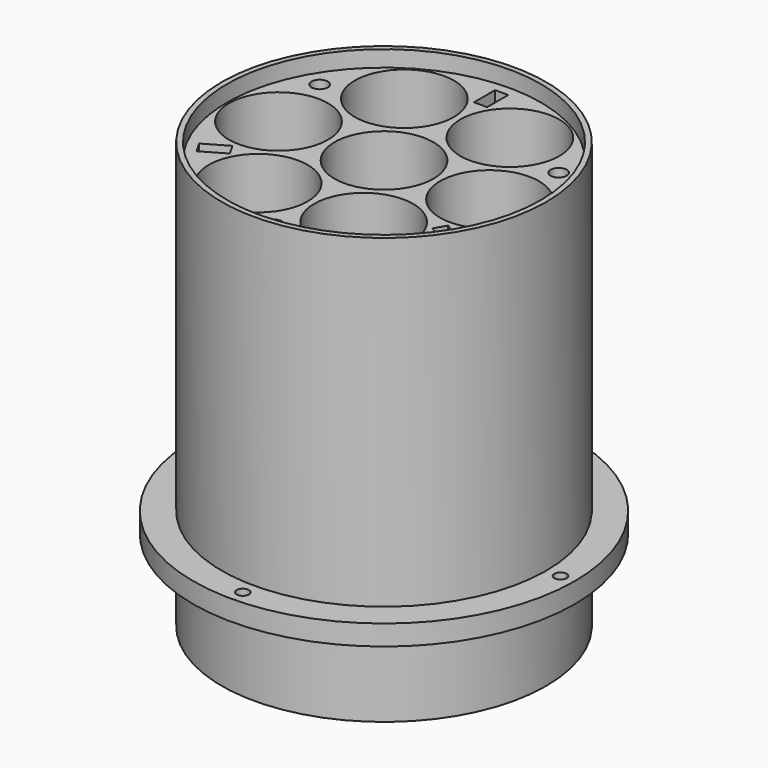
from build123d import *

# Parameters (mm, degrees)
CYLINDER001_R         = 47
CYLINDER001_DEPTH     = 5
CYLINDER_R            = 40
CYLINDER_DEPTH        = 105
SKETCH_R              = 12.2
POCKET_DEPTH          = 100.001
SKETCH001_R           = 12.2
POCKET001_DEPTH       = 438.804778
POLARPATTERN_COUNT    = 6
SKETCH002_R           = 7
POCKET002_DEPTH       = 105.001
SKETCH003_R           = 7
POCKET003_DEPTH       = 443.804778
POLARPATTERN001_COUNT = 6
SKETCH004_R           = 38.7
POCKET004_DEPTH       = 4.001
SKETCH005_R           = 2
POCKET005_DEPTH       = 439.804778
POCKET005_DEPTH_BACK  = 342.804778
POLARPATTERN002_COUNT = 3
SKETCH006_R           = 1.5
POCKET006_DEPTH       = 338.804778
POCKET006_DEPTH_BACK  = 443.804778
POLARPATTERN003_COUNT = 4
SKETCH007_W           = 3.25
SKETCH007_H           = 6.5
POCKET007_DEPTH       = 338.804778
POCKET007_DEPTH_BACK  = 443.804778
POLARPATTERN004_COUNT = 3


with BuildPart() as obj1:
    # Cylinder001 → Cylinder001 (new body)
    with BuildSketch(Plane.XY.offset(20)):
        Circle(CYLINDER001_R)
    extrude(amount=CYLINDER001_DEPTH)


with BuildPart() as corps:
    # Cylinder → Cylinder (new body)
    with BuildSketch(Plane.XY):
        Circle(CYLINDER_R)
    extrude(amount=CYLINDER_DEPTH)

    # Fusion: union obj1
    add(obj1.part)

    # Sketch → Pocket (cut, through all)
    with BuildSketch(Plane.XY.offset(5)):
        Circle(SKETCH_R)
    extrude(amount=POCKET_DEPTH, mode=Mode.SUBTRACT)

    # Sketch001 → Pocket001 (cut, through all)
    with BuildSketch(Plane(origin=(26, 0, 5), x_dir=(1, 0, 0), z_dir=(0, 0, 1))):
        Circle(SKETCH001_R)
    pocket001 = extrude(amount=POCKET001_DEPTH, mode=Mode.SUBTRACT)

    # PolarPattern: Pocket001 ×6 about axis
    polarpattern_axis = Axis((0, 0, 0), (0, 0, 1))
    for i in range(1, POLARPATTERN_COUNT):
        add(pocket001.rotate(polarpattern_axis, i * 360 / POLARPATTERN_COUNT), mode=Mode.SUBTRACT)

    # Sketch002 → Pocket002 (cut, through all)
    with BuildSketch(Plane.XY):
        Circle(SKETCH002_R)
    extrude(amount=POCKET002_DEPTH, mode=Mode.SUBTRACT)

    # Sketch003 → Pocket003 (cut, through all)
    with BuildSketch(Plane(origin=(25, 0, 0), x_dir=(1, 0, 0), z_dir=(0, 0, 1))):
        Circle(SKETCH003_R)
    pocket003 = extrude(amount=POCKET003_DEPTH, mode=Mode.SUBTRACT)

    # PolarPattern001: Pocket003 ×6 about axis
    polarpattern001_axis = Axis((0, 0, 0), (0, 0, 1))
    for i in range(1, POLARPATTERN001_COUNT):
        add(pocket003.rotate(polarpattern001_axis, i * 360 / POLARPATTERN001_COUNT), mode=Mode.SUBTRACT)

    # Sketch004 → Pocket004 (cut, through all)
    with BuildSketch(Plane.XY.offset(101)):
        Circle(SKETCH004_R)
    extrude(amount=POCKET004_DEPTH, mode=Mode.SUBTRACT)

    # Sketch005 → Pocket005 (cut, two sides)
    with BuildSketch(Plane(origin=(0, -34, 101), x_dir=(1, 0, 0), z_dir=(0, 0, 1))) as pocket005_sk:
        Circle(SKETCH005_R)
    pocket005 = extrude(amount=-POCKET005_DEPTH, mode=Mode.SUBTRACT) + extrude(pocket005_sk.sketch, amount=POCKET005_DEPTH_BACK, mode=Mode.SUBTRACT)

    # PolarPattern002: Pocket005 ×3 about axis
    polarpattern002_axis = Axis((0, 0, 0), (0, 0, 1))
    for i in range(1, POLARPATTERN002_COUNT):
        add(pocket005.rotate(polarpattern002_axis, i * 360 / POLARPATTERN002_COUNT), mode=Mode.SUBTRACT)

    # Sketch006 → Pocket006 (cut, two sides)
    with BuildSketch(Plane(origin=(0, 43.5, 0), x_dir=(1, 0, 0), z_dir=(0, 0, 1))) as pocket006_sk:
        Circle(SKETCH006_R)
    pocket006 = extrude(amount=-POCKET006_DEPTH, mode=Mode.SUBTRACT) + extrude(pocket006_sk.sketch, amount=POCKET006_DEPTH_BACK, mode=Mode.SUBTRACT)

    # PolarPattern003: Pocket006 ×4 about axis
    polarpattern003_axis = Axis((0, 0, 0), (0, 0, 1))
    for i in range(1, POLARPATTERN003_COUNT):
        add(pocket006.rotate(polarpattern003_axis, i * 360 / POLARPATTERN003_COUNT), mode=Mode.SUBTRACT)

    # Sketch007 → Pocket007 (cut, two sides)
    with BuildSketch(Plane(origin=(0, 33, 0), x_dir=(1, 0, 0), z_dir=(0, 0, 1))) as pocket007_sk:
        Rectangle(SKETCH007_W, SKETCH007_H)
    pocket007 = extrude(amount=-POCKET007_DEPTH, mode=Mode.SUBTRACT) + extrude(pocket007_sk.sketch, amount=POCKET007_DEPTH_BACK, mode=Mode.SUBTRACT)

    # PolarPattern004: Pocket007 ×3 about axis
    polarpattern004_axis = Axis((0, 0, 0), (0, 0, 1))
    for i in range(1, POLARPATTERN004_COUNT):
        add(pocket007.rotate(polarpattern004_axis, i * 360 / POLARPATTERN004_COUNT), mode=Mode.SUBTRACT)


solid = corps.part
